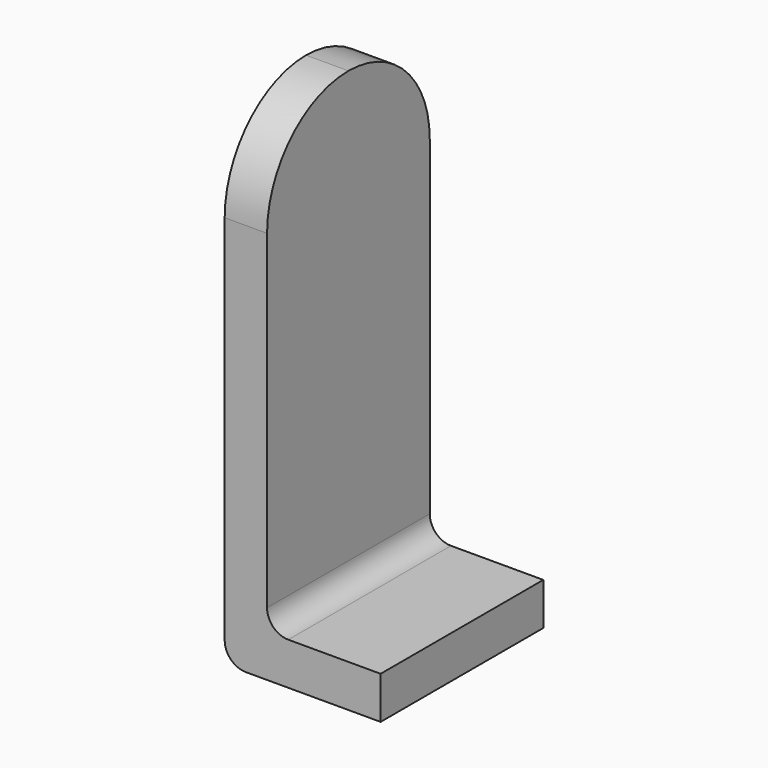
from build123d import *

# Parameters (mm, degrees)
F1_DEPTH = 15.24
F2_R     = 1.5875
F4_DEPTH = 3.175


with BuildPart() as f1:
    # F0 (on Front) → F1 (new body)
    with BuildSketch(Plane.XZ):
        Polygon((3.175, 37.084), (0, 37.084), (0, 0), (11.684, 0), (11.684, 3.175), (3.175, 3.175), align=None)
    extrude(amount=-F1_DEPTH)

    # F2
    f2_edges = [f1.edges().sort_by_distance(p)[0] for p in [
        (3.175, 7.62, 3.175),
        (0, 7.62, 0),
    ]]
    fillet(f2_edges, radius=F2_R)

    # F3 (on face) → F4 (cut, through all)
    with BuildSketch(Plane(origin=(0, 0, 0), x_dir=(0, -1, 0), z_dir=(-1, 0, 0))):
        with BuildLine():
            ThreePointArc((-15.24, 29.464), (-13.0081536726, 34.8521536726), (-7.62, 37.084))
            Line((-7.62, 37.084), (-15.24, 37.084))
            Line((-15.24, 37.084), (-15.24, 29.464))
        make_face()
        with BuildLine():
            ThreePointArc((-7.62, 37.084), (-2.2318463274, 34.8521536726), (0, 29.464))
            Line((0, 29.464), (0, 37.084))
            Line((0, 37.084), (-7.62, 37.084))
        make_face()
    extrude(amount=-F4_DEPTH, mode=Mode.SUBTRACT)


solid = f1.part
